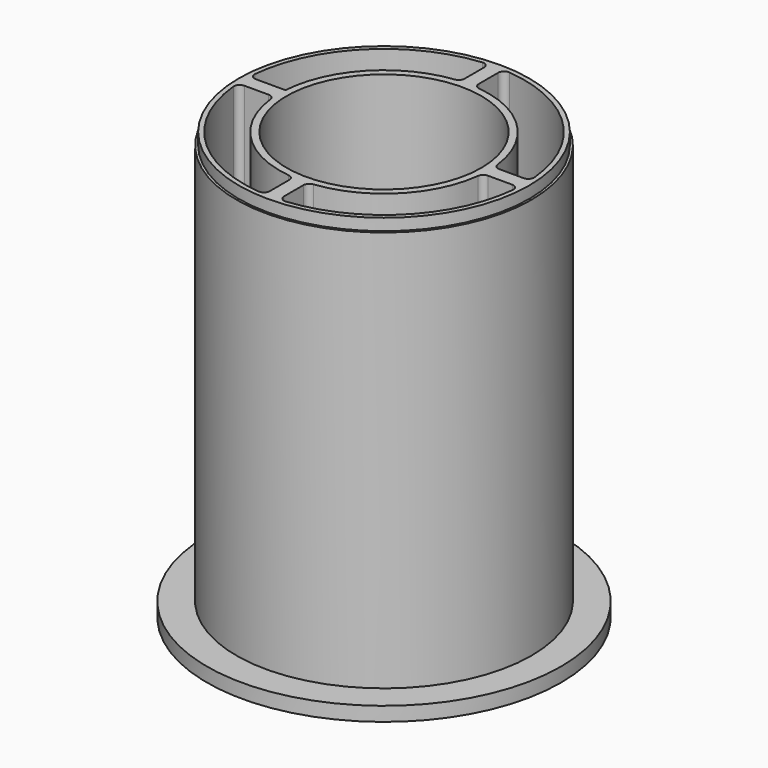
from build123d import *

# Parameters (mm, degrees)
F1_R     = 30
F1_R_2   = 16.5
F2_DEPTH = 2.4
F0_R     = 25
F0_R_2   = 16.5
F3_DEPTH = 70
F4_W     = 0.4
F4_H     = 2
F6_R     = 1


with BuildPart() as f2:
    # F1 (on Top) → F2 (new body)
    with BuildSketch(Plane.XY):
        Circle(F1_R)
        Circle(F1_R_2, mode=Mode.SUBTRACT)
    extrude(amount=-F2_DEPTH)

    # F0 (on Top) → F3 (join)
    with BuildSketch(Plane.XY):
        Circle(F0_R)
        with BuildLine():
            ThreePointArc((23.769729, 1.2), (23.792431, 0.600191), (23.8, 0))
            ThreePointArc((23.8, 0), (23.792431, -0.600191), (23.769729, -1.2))
            ThreePointArc((23.769729, -1.2), (16.829141, -16.829141), (1.2, -23.769729))
            ThreePointArc((1.2, -23.769729), (0, -23.8), (-1.2, -23.769729))
            ThreePointArc((-1.2, -23.769729), (-16.829141, -16.829141), (-23.769729, -1.2))
            ThreePointArc((-23.769729, -1.2), (-23.8, 0), (-23.769729, 1.2))
            ThreePointArc((-23.769729, 1.2), (-16.829141, 16.829141), (-1.2, 23.769729))
            ThreePointArc((-1.2, 23.769729), (0, 23.8), (1.2, 23.769729))
            ThreePointArc((1.2, 23.769729), (16.829141, 16.829141), (23.769729, 1.2))
        make_face(mode=Mode.SUBTRACT)
        with BuildLine():
            Line((-17.659275, 1.2), (-23.769729, 1.2))
            ThreePointArc((-23.769729, 1.2), (-23.8, 0), (-23.769729, -1.2))
            Line((-23.769729, -1.2), (-17.659275, -1.2))
            ThreePointArc((-17.659275, -1.2), (-17.7, 0), (-17.659275, 1.2))
        make_face()
        with BuildLine():
            Line((1.2, 17.659275), (1.2, 23.769729))
            ThreePointArc((1.2, 23.769729), (0, 23.8), (-1.2, 23.769729))
            Line((-1.2, 23.769729), (-1.2, 17.659275))
            ThreePointArc((-1.2, 17.659275), (0, 17.7), (1.2, 17.659275))
        make_face()
        with BuildLine():
            ThreePointArc((23.769729, -1.2), (23.792431, -0.600191), (23.8, 0))
            ThreePointArc((23.8, 0), (23.792431, 0.600191), (23.769729, 1.2))
            Line((23.769729, 1.2), (17.659275, 1.2))
            ThreePointArc((17.659275, 1.2), (17.689816, 0.600345), (17.7, 0))
            ThreePointArc((17.7, 0), (17.689816, -0.600345), (17.659275, -1.2))
            Line((17.659275, -1.2), (23.769729, -1.2))
        make_face()
        with BuildLine():
            ThreePointArc((-1.2, -23.769729), (0, -23.8), (1.2, -23.769729))
            Line((1.2, -23.769729), (1.2, -17.659275))
            ThreePointArc((1.2, -17.659275), (0, -17.7), (-1.2, -17.659275))
            Line((-1.2, -17.659275), (-1.2, -23.769729))
        make_face()
        with BuildLine():
            ThreePointArc((17.7, 0), (17.689816, 0.600345), (17.659275, 1.2))
            ThreePointArc((17.659275, 1.2), (12.51579, 12.51579), (1.2, 17.659275))
            ThreePointArc((1.2, 17.659275), (0, 17.7), (-1.2, 17.659275))
            ThreePointArc((-1.2, 17.659275), (-12.51579, 12.51579), (-17.659275, 1.2))
            ThreePointArc((-17.659275, 1.2), (-17.7, 0), (-17.659275, -1.2))
            ThreePointArc((-17.659275, -1.2), (-12.51579, -12.51579), (-1.2, -17.659275))
            ThreePointArc((-1.2, -17.659275), (0, -17.7), (1.2, -17.659275))
            ThreePointArc((1.2, -17.659275), (12.51579, -12.51579), (17.659275, -1.2))
            ThreePointArc((17.659275, -1.2), (17.689816, -0.600345), (17.7, 0))
        make_face()
        Circle(F0_R_2, mode=Mode.SUBTRACT)
    extrude(amount=F3_DEPTH)

    # F4 (on Front) → F5 (revolve, cut)
    with BuildSketch(Plane.XZ):
        with Locations((24.8, 69)):
            Rectangle(F4_W, F4_H)
    revolve(axis=Axis((0, 0, 41.403618), (0, 0, 1)), mode=Mode.SUBTRACT)

    # F6
    f6_edges = [f2.edges().sort_by_distance(p)[0] for p in [
        (-1.2, 23.769729, 35),
        (-1.2, 17.659275, 35),
        (1.2, 23.769729, 35),
        (1.2, 17.659275, 35),
        (17.659275, 1.2, 35),
        (17.659275, -1.2, 35),
        (1.2, -17.659275, 35),
        (-1.2, -17.659275, 35),
        (-17.659275, -1.2, 35),
        (1.2, -23.769729, 35),
        (23.769729, -1.2, 35),
        (23.769729, 1.2, 35),
        (-1.2, -23.769729, 35),
        (-23.769729, -1.2, 35),
        (-23.769729, 1.2, 35),
    ]]
    fillet(f6_edges, radius=F6_R)


solid = f2.part
